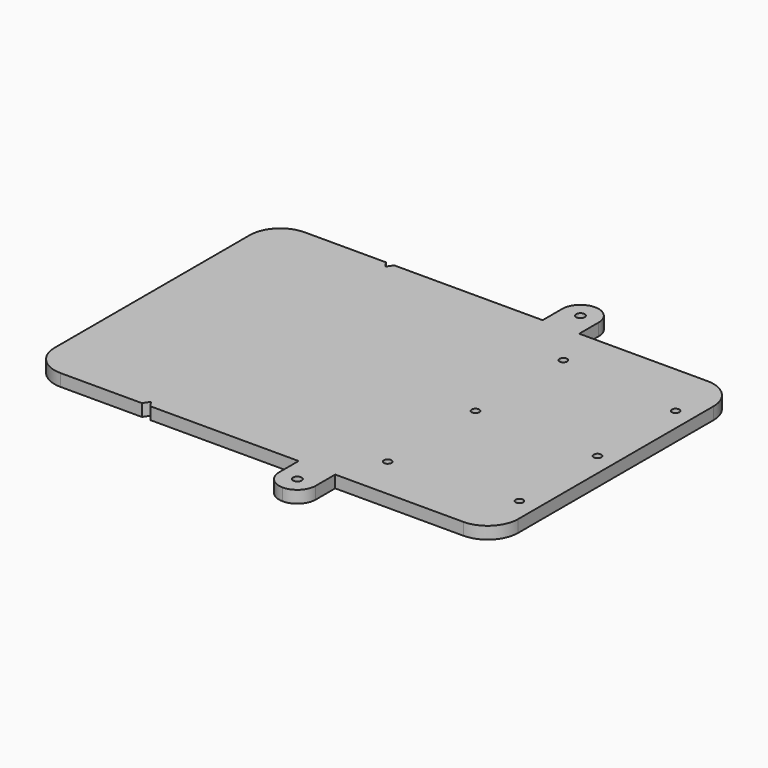
from build123d import *

# Parameters (mm, degrees)
F1_DEPTH = 10
F2_R     = 3.5
F3_DEPTH = 25
F4_R     = 3.1
F5_DEPTH = 25


with BuildPart() as f1:
    # F0 (on Top) → F1 (new body)
    with BuildSketch(Plane.XY):
        with BuildLine():
            ThreePointArc((0, 25), (7.32233, 7.32233), (25, 0))
            Line((25, 0), (91.562498, 0))
            Line((91.562498, 0), (95, 5))
            Line((95, 5), (98.437502, 0))
            Line((98.437502, 0), (220, 0))
            Line((220, 0), (220, -20))
            ThreePointArc((220, -20), (224.393398, -30.606602), (235, -35))
            ThreePointArc((235, -35), (245.606602, -30.606602), (250, -20))
            Line((250, -20), (250, 0))
            Line((250, 0), (355, 0))
            ThreePointArc((355, 0), (372.67767, 7.32233), (380, 25))
            Line((380, 25), (380, 225))
            ThreePointArc((380, 225), (372.67767, 242.67767), (355, 250))
            Line((355, 250), (250, 250))
            Line((250, 250), (250, 270))
            ThreePointArc((250, 270), (245.606602, 280.606602), (235, 285))
            ThreePointArc((235, 285), (224.393398, 280.606602), (220, 270))
            Line((220, 270), (220, 250))
            Line((220, 250), (98.437502, 250))
            Line((98.437502, 250), (95, 245))
            Line((95, 245), (91.562498, 250))
            Line((91.562498, 250), (25, 250))
            ThreePointArc((25, 250), (7.32233, 242.67767), (0, 225))
            Line((0, 225), (0, 25))
        make_face()
    extrude(amount=F1_DEPTH)

    # F2 (on face) → F3 (cut)
    with BuildSketch(Plane.XY.offset(10)):
        with Locations((235, -20)):
            Circle(F2_R)
        with Locations((235, 270)):
            Circle(F2_R)
    extrude(amount=-F3_DEPTH, mode=Mode.SUBTRACT)

    # F4 (on face) → F5 (cut)
    with BuildSketch(Plane.XY.offset(10)):
        with Locations((265, 215)):
            Circle(F4_R)
        with Locations((265, 125)):
            Circle(F4_R)
        with Locations((265, 35)):
            Circle(F4_R)
        with Locations((365, 45)):
            Circle(F4_R)
        with Locations((365, 125)):
            Circle(F4_R)
        with Locations((365, 205)):
            Circle(F4_R)
    extrude(amount=-F5_DEPTH, mode=Mode.SUBTRACT)


solid = f1.part
